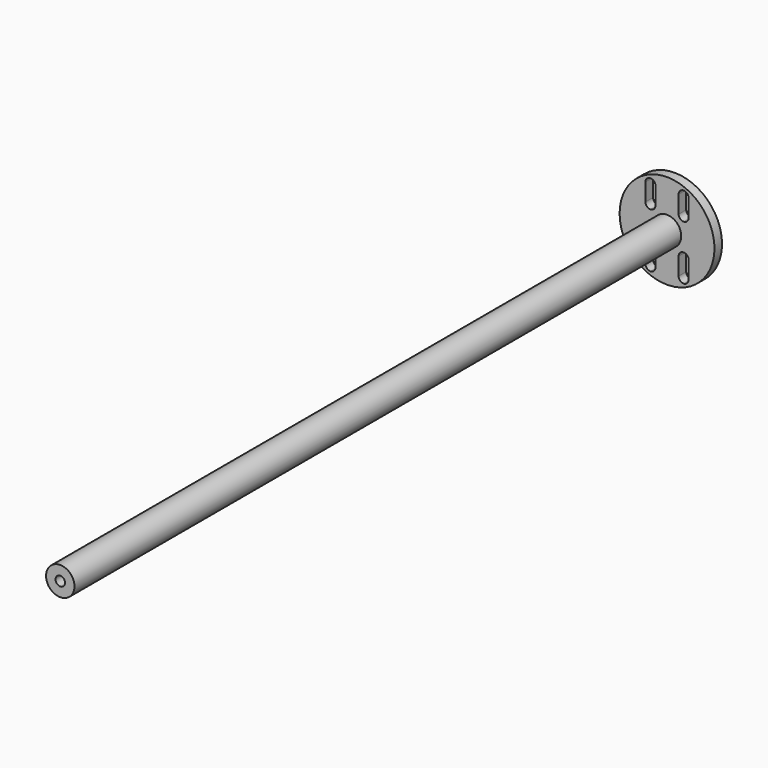
from build123d import *

# Parameters (mm, degrees)
F0_R     = 15
F1_DEPTH = 800
F2_R     = 50
F3_DEPTH = 10
F4_R     = 5
F5_DEPTH = 30


with BuildPart() as f1:
    # F0 (on Front) → F1 (new body)
    with BuildSketch(Plane.XZ):
        Circle(F0_R)
    extrude(amount=F1_DEPTH)

    # F2 (on face) → F3 (join)
    with BuildSketch(Plane(origin=(0, 0, 0), x_dir=(-1, 0, 0), z_dir=(0, 1, 0))):
        Circle(F2_R)
        with BuildLine():
            ThreePointArc((-17.5, -14.25), (-13.787689, -15.787689), (-12.25, -19.5))
            Line((-12.25, -19.5), (-12.25, -38))
            ThreePointArc((-12.25, -38), (-13.787689, -41.712311), (-17.5, -43.25))
            ThreePointArc((-17.5, -43.25), (-21.212311, -41.712311), (-22.75, -38))
            Line((-22.75, -38), (-22.75, -19.5))
            ThreePointArc((-22.75, -19.5), (-21.212311, -15.787689), (-17.5, -14.25))
        make_face(mode=Mode.SUBTRACT)
        with BuildLine():
            ThreePointArc((17.5, -14.25), (21.212311, -15.787689), (22.75, -19.5))
            Line((22.75, -19.5), (22.75, -38))
            ThreePointArc((22.75, -38), (21.212311, -41.712311), (17.5, -43.25))
            ThreePointArc((17.5, -43.25), (13.787689, -41.712311), (12.25, -38))
            Line((12.25, -38), (12.25, -19.5))
            ThreePointArc((12.25, -19.5), (13.787689, -15.787689), (17.5, -14.25))
        make_face(mode=Mode.SUBTRACT)
        with BuildLine():
            Line((-22.75, 19.5), (-22.75, 38))
            ThreePointArc((-22.75, 38), (-21.212311, 41.712311), (-17.5, 43.25))
            ThreePointArc((-17.5, 43.25), (-13.787689, 41.712311), (-12.25, 38))
            Line((-12.25, 38), (-12.25, 19.5))
            ThreePointArc((-12.25, 19.5), (-13.787689, 15.787689), (-17.5, 14.25))
            ThreePointArc((-17.5, 14.25), (-21.212311, 15.787689), (-22.75, 19.5))
        make_face(mode=Mode.SUBTRACT)
        with BuildLine():
            ThreePointArc((17.5, 43.25), (21.212311, 41.712311), (22.75, 38))
            Line((22.75, 38), (22.75, 19.5))
            ThreePointArc((22.75, 19.5), (21.212311, 15.787689), (17.5, 14.25))
            ThreePointArc((17.5, 14.25), (13.787689, 15.787689), (12.25, 19.5))
            Line((12.25, 19.5), (12.25, 38))
            ThreePointArc((12.25, 38), (13.787689, 41.712311), (17.5, 43.25))
        make_face(mode=Mode.SUBTRACT)
    extrude(amount=F3_DEPTH)

    # F4 (on face) → F5 (cut)
    with BuildSketch(Plane.XZ.offset(800)):
        Circle(F4_R)
    extrude(amount=-F5_DEPTH, mode=Mode.SUBTRACT)


solid = f1.part
